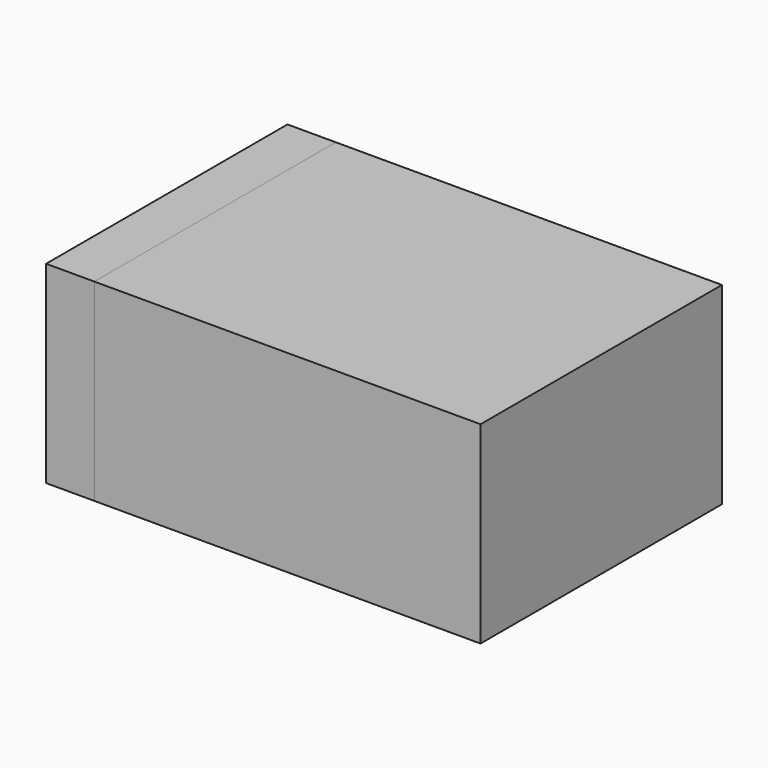
from build123d import *

# Parameters (mm, degrees)
SKETCH_W     = 1.6
SKETCH_H     = 1.25
PAD_DEPTH    = 0.8
SKETCH001_W  = 0.2
SKETCH001_H  = 1.25
PAD001_DEPTH = 0.8


with BuildPart() as body:
    # Sketch → Pad (new body)
    with BuildSketch(Plane.XY):
        Rectangle(SKETCH_W, SKETCH_H)
    extrude(amount=PAD_DEPTH)


with BuildPart() as body001:
    # Sketch001 → Pad001 (new body)
    with BuildSketch(Plane.XY):
        with Locations((0.9, 0)):
            Rectangle(SKETCH001_W, SKETCH001_H)
    extrude(amount=PAD001_DEPTH)


with BuildPart() as part_mirroring:
    # Part__Mirroring: instance of Body001
    add(body001.part.mirror(Plane(origin=(0, 0, 0), x_dir=(0, -1, 0), z_dir=(1, 0, 0))))


solid = Compound([body.part, part_mirroring.part])
